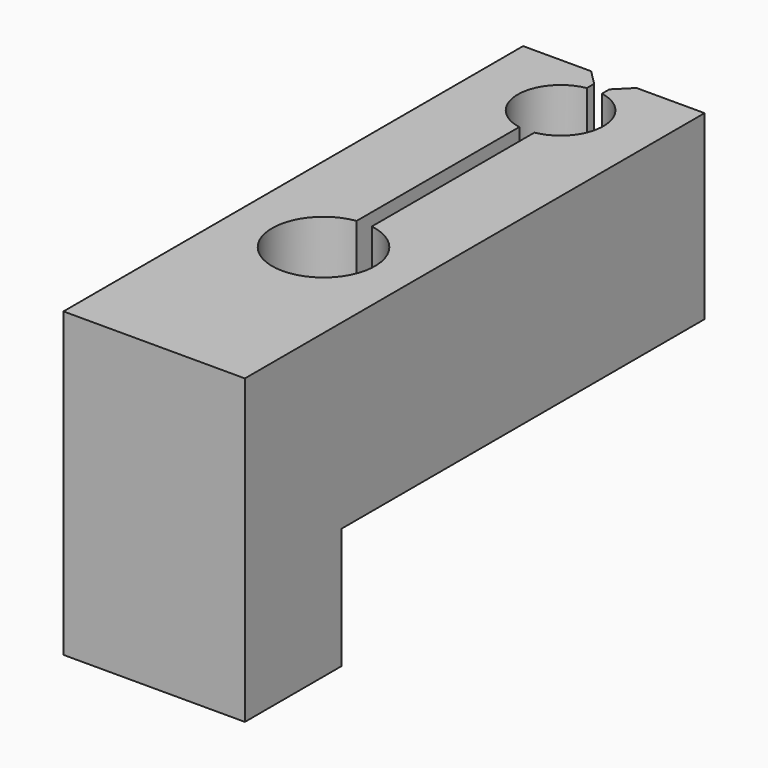
from build123d import *

# Parameters (mm, degrees)
F0_W     = 7.62
F0_H     = 24.13
F0_R     = 2.159
F0_R_2   = 1.8
F2_DEPTH = 12.7
F1_W     = 0.635
F1_H     = 15.24
F3_DEPTH = 19.05
F4_SIZE  = 0.635
F5_W     = 19.05
F5_H     = 5.08
F6_DEPTH = 12.7


with BuildPart() as f2:
    # F0 (on Top) → F2 (new body)
    with BuildSketch(Plane.XY):
        with Locations((0, -12.065)):
            Rectangle(F0_W, F0_H)
        with Locations((0, -15.24)):
            Circle(F0_R, mode=Mode.SUBTRACT)
        with Locations((0, -2.794)):
            Circle(F0_R_2, mode=Mode.SUBTRACT)
    extrude(amount=F2_DEPTH)

    # F1 (on Top) → F3 (cut)
    with BuildSketch(Plane.XY):
        with Locations((0, -7.62)):
            Rectangle(F1_W, F1_H)
    extrude(amount=F3_DEPTH, mode=Mode.SUBTRACT)

    # F4
    f4_edges = [f2.edges().sort_by_distance(p)[0] for p in [
        (0.3175, 0, 6.35),
        (-0.3175, 0, 6.35),
    ]]
    chamfer(f4_edges, length=F4_SIZE)

    # F5 (on Right) → F6 (cut, symmetric)
    with BuildSketch(Plane.YZ):
        with Locations((-9.525, 2.54)):
            Rectangle(F5_W, F5_H)
    extrude(amount=F6_DEPTH, both=True, mode=Mode.SUBTRACT)


solid = f2.part
